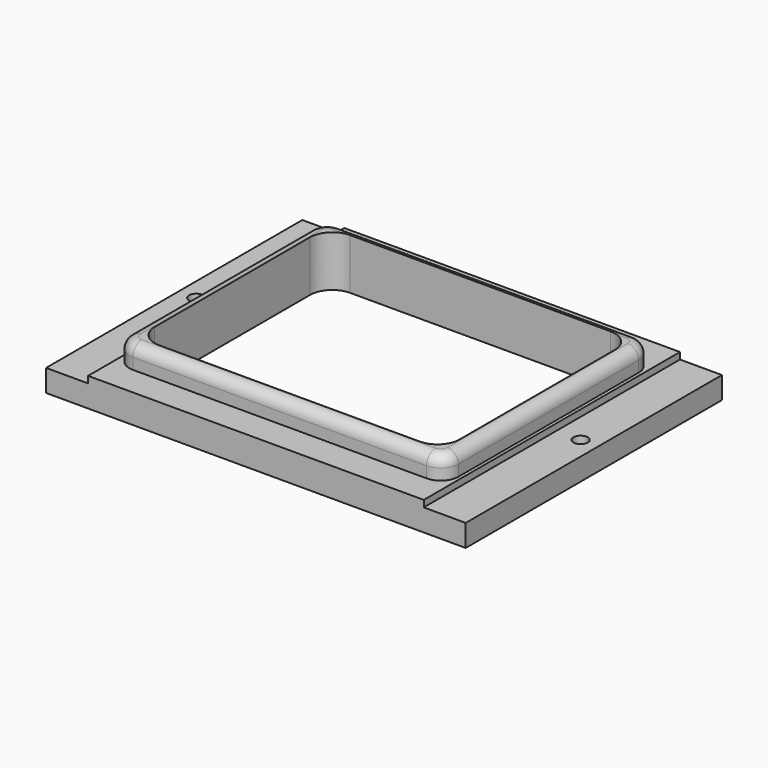
from build123d import *

# Parameters (mm, degrees)
CYLINDER_R     = 3.25
CYLINDER_DEPTH = 10
ARRAY_X_COUNT  = 2
ARRAY_X_PITCH  = 174
BOX003_W       = 138
BOX003_H       = 108
BOX003_DEPTH   = 37
BOX001_W       = 152
BOX001_H       = 145
BOX001_DEPTH   = 10
BOX_W          = 190
BOX_H          = 145
BOX_DEPTH      = 10
BOX002_W       = 149
BOX002_H       = 118
BOX002_DEPTH   = 20
FILLET_R       = 10
FILLET001_R    = 8
FILLET002_R    = 5


with BuildPart() as array:
    # Cylinder → Cylinder (new body)
    with BuildSketch(Plane(origin=(8, 75, 0), x_dir=(1, 0, 0), z_dir=(0, 0, 1))):
        Circle(CYLINDER_R)
    extrude(amount=CYLINDER_DEPTH)

    # Array X: Array ×2


with BuildPart() as array_1:
    add(array.part)
    with Locations(*[(i * ARRAY_X_PITCH, 0, 0) for i in range(1, ARRAY_X_COUNT)]):
        add(array.part)


with BuildPart() as cubo003:
    # Box003 → Box003 (new body)
    with BuildSketch(Plane(origin=(26, 19, -4), x_dir=(1, 0, 0), z_dir=(0, 0, 1))):
        with Locations((69, 54)):
            Rectangle(BOX003_W, BOX003_H)
    extrude(amount=BOX003_DEPTH)


with BuildPart() as cubo001:
    # Box001 → Box001 (new body)
    with BuildSketch(Plane(origin=(19, 0, 3), x_dir=(1, 0, 0), z_dir=(0, 0, 1))):
        with Locations((76, 72.5)):
            Rectangle(BOX001_W, BOX001_H)
    extrude(amount=BOX001_DEPTH)


with BuildPart() as cubo:
    # Box → Box (new body)
    with BuildSketch(Plane.XY):
        with Locations((95, 72.5)):
            Rectangle(BOX_W, BOX_H)
    extrude(amount=BOX_DEPTH)


with BuildPart() as cut001:
    # Box002 → Box002 (new body)
    with BuildSketch(Plane(origin=(20.5, 13.5, 3), x_dir=(1, 0, 0), z_dir=(0, 0, 1))):
        with Locations((74.5, 59)):
            Rectangle(BOX002_W, BOX002_H)
    extrude(amount=BOX002_DEPTH)

    # Fusion: union Cubo001, Cubo
    add(cubo001.part)
    add(cubo.part)

    # Cut: cut Cubo003
    add(cubo003.part, mode=Mode.SUBTRACT)

    # Fillet
    fillet_edges = [cut001.edges().sort_by_distance(p)[0] for p in [
        (164, 19, 11.5),
        (26, 19, 11.5),
        (164, 127, 11.5),
        (26, 127, 11.5),
    ]]
    fillet(fillet_edges, radius=FILLET_R)

    # Fillet001
    fillet001_edges = [cut001.edges().sort_by_distance(p)[0] for p in [
        (20.5, 13.5, 18),
        (20.5, 131.5, 18),
        (169.5, 131.5, 18),
        (169.5, 13.5, 18),
    ]]
    fillet(fillet001_edges, radius=FILLET001_R)

    # Fillet002
    fillet002_edges = [cut001.edges().sort_by_distance(p)[0] for p in [
        (20.5, 72.5, 23),
        (22.843146, 15.843146, 23),
        (22.843146, 129.156854, 23),
        (95, 13.5, 23),
        (95, 131.5, 23),
        (167.156854, 15.843146, 23),
        (167.156854, 129.156854, 23),
        (169.5, 72.5, 23),
    ]]
    fillet(fillet002_edges, radius=FILLET002_R)

    # Cut001: cut Array
    add(array_1.part, mode=Mode.SUBTRACT)


solid = cut001.part
